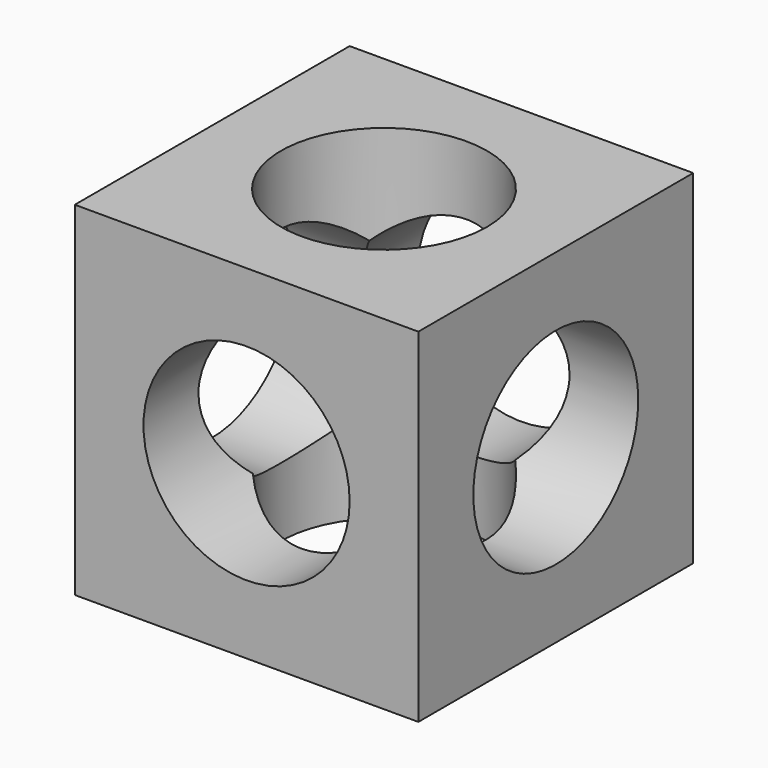
from build123d import *

# Parameters (mm, degrees)
F0_W     = 127
F0_H     = 127
F1_DEPTH = 127
F2_R     = 38.1
F3_DEPTH = 127.001
F4_R     = 38.1
F5_DEPTH = 127.001
F6_R     = 38.1
F7_DEPTH = 127.001


with BuildPart() as f1:
    # F0 (on Top) → F1 (new body)
    with BuildSketch(Plane.XY):
        with Locations((63.5, 63.5)):
            Rectangle(F0_W, F0_H)
    extrude(amount=F1_DEPTH)

    # F2 (on face) → F3 (cut, through all)
    with BuildSketch(Plane.XZ):
        with Locations((63.5, 63.5)):
            Circle(F2_R)
    extrude(amount=-F3_DEPTH, mode=Mode.SUBTRACT)

    # F4 (on face) → F5 (cut, through all)
    with BuildSketch(Plane.YZ.offset(127)):
        with Locations((63.5, 63.5)):
            Circle(F4_R)
    extrude(amount=-F5_DEPTH, mode=Mode.SUBTRACT)

    # F6 (on face) → F7 (cut, through all)
    with BuildSketch(Plane.XY.offset(127)):
        with Locations((63.5, 63.5)):
            Circle(F6_R)
    extrude(amount=-F7_DEPTH, mode=Mode.SUBTRACT)


solid = f1.part
